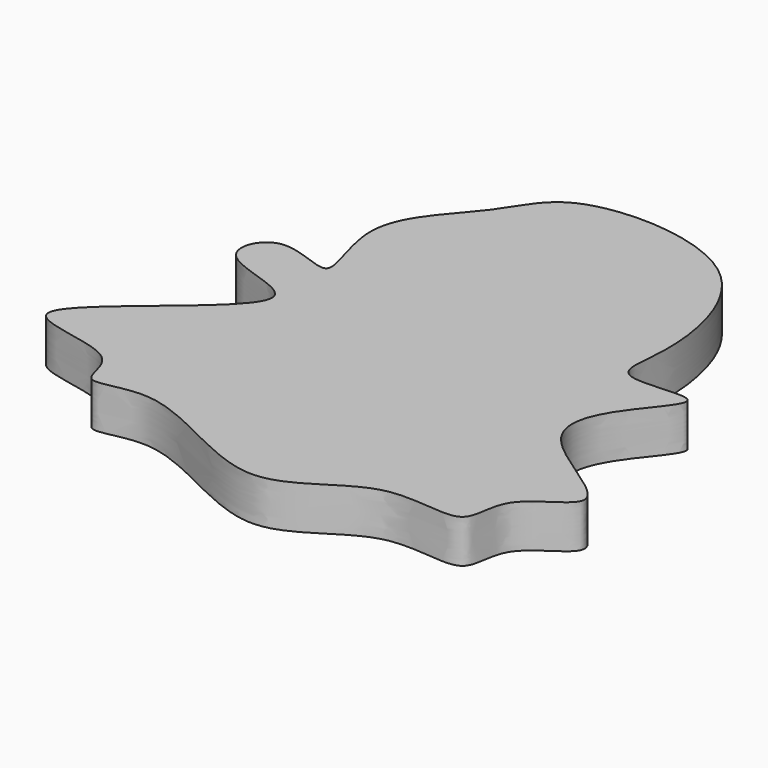
from build123d import *

# Parameters (mm, degrees)
F1_DEPTH = 7.62


with BuildPart() as f1:
    # F0 (on Top) → F1 (new body)
    with BuildSketch(Plane.XY):
        with BuildLine():
            add(Edge.make_bspline(
                [(-36.3549105823, 13.2863316685), (-33.0416032724, 14.071175709), (-22.1065440673, 6.805418199), (-33.1742361374, 26.6292904408), (-18.7301396436, 38.7427037916), (-14.2973058855, 51.6204074951), (21.1897527828, 50.391867369), (26.4154803994, 22.0714294495), (22.8217333278, 10.2134539575), (41.5203616857, 14.708997787), (30.5645824987, 3.8324539936), (25.3444761422, -9.0192885009), (51.6831856585, -20.0254380234), (34.1981550755, -25.5593505151), (36.9517962129, -37.9787019305), (19.0629007909, -31.4313177569), (4.661417255, -49.9417266432), (-19.8466002828, -29.499097997), (-33.1578932711, -37.3396108985), (-31.388377909, -25.1675578354), (-62.8754211473, -26.6157160317), (-13.0119711112, 3.0769638797), (-42.8325787882, 4.0014664547), (-39.1320569827, 12.6284914509), (-36.3549105823, 13.2863316685)],
                knots=[0, 0, 0, 0, 0.037994557, 0.0817843906, 0.1322483361, 0.1746499211, 0.2388467654, 0.3002716237, 0.3351620055, 0.3745549993, 0.4113079546, 0.4535384104, 0.5059320282, 0.5445526167, 0.5789643992, 0.6229949139, 0.6756727772, 0.738720656, 0.777007336, 0.8089497161, 0.8555817251, 0.9232710113, 0.9681537397, 1, 1, 1, 1], degree=3))
        make_face()
    extrude(amount=F1_DEPTH)


solid = f1.part
